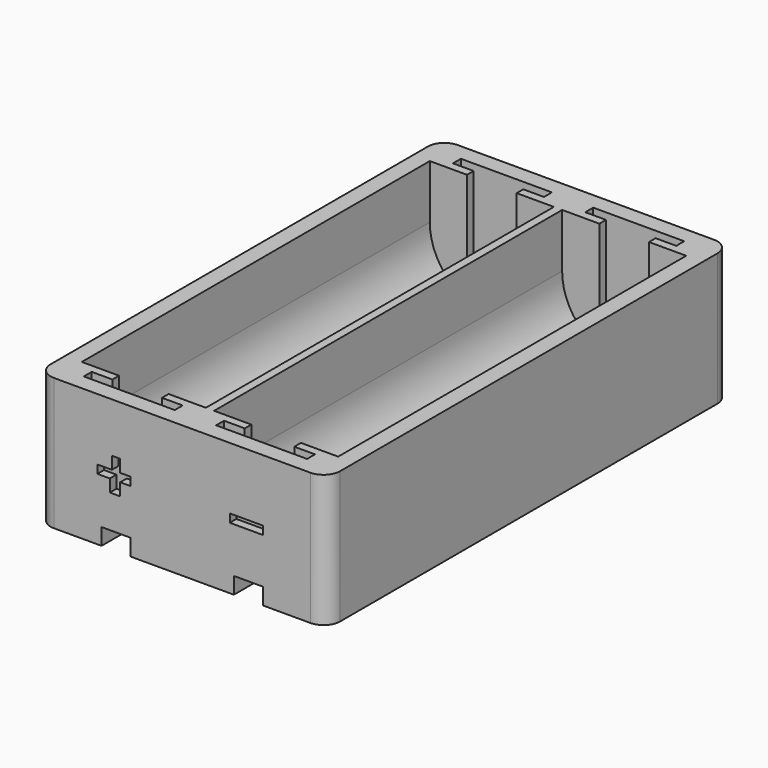
from build123d import *

# Parameters (mm, degrees)
SKETCH_W        = 35
SKETCH_H        = 61
PAD_DEPTH       = 16
SKETCH001_W     = 31
SKETCH001_H     = 57
POCKET_DEPTH    = 14
SKETCH002_W     = 1
SKETCH002_H     = 57
PAD001_DEPTH    = 14
SKETCH003_W     = 15
SKETCH003_H     = 2.2
PAD002_DEPTH    = 2
SKETCH004_W     = 3.5
SKETCH004_H     = 1
POCKET001_DEPTH = 5
SKETCH005_W     = 4.5
SKETCH005_H     = 1
PAD003_DEPTH    = 12
FILLET_R        = 2
FILLET001_R     = 7.49
SKETCH006_W     = 2
SKETCH006_H     = 1.2
PAD004_DEPTH    = 12
SKETCH007_W     = 3.5
SKETCH007_H     = 2
POCKET002_DEPTH = 2
SKETCH008_W     = 4
SKETCH008_H     = 1
POCKET003_DEPTH = 1
SKETCH009_W     = 19.5
SKETCH009_H     = 4
POCKET004_DEPTH = 1


with BuildPart() as part:
    # Sketch → Pad (new body)
    with BuildSketch(Plane.XY):
        Rectangle(SKETCH_W, SKETCH_H)
    extrude(amount=PAD_DEPTH)

    # Sketch001 (on Face6 of Pad) → Pocket (cut)
    with BuildSketch(Plane.XY.offset(16)):
        Rectangle(SKETCH001_W, SKETCH001_H)
    extrude(amount=-POCKET_DEPTH, mode=Mode.SUBTRACT)

    # Sketch002 (on Face11 of Pocket) → Pad001 (join)
    with BuildSketch(Plane.XY.offset(2)):
        Rectangle(SKETCH002_W, SKETCH002_H)
    extrude(amount=PAD001_DEPTH)

    # Sketch003 (on Face17 of Pad001) → Pad002 (join)
    with BuildSketch(Plane.XY.offset(2)):
        with Locations((8, 27.4)):
            Rectangle(SKETCH003_W, SKETCH003_H)
        with Locations((-8, 27.4)):
            Rectangle(SKETCH003_W, SKETCH003_H)
        with Locations((8, -27.4)):
            Rectangle(SKETCH003_W, SKETCH003_H)
        with Locations((-8, -27.4)):
            Rectangle(SKETCH003_W, SKETCH003_H)
    extrude(amount=PAD002_DEPTH)

    # Sketch004 (on Face22 of Pad002) → Pocket001 (cut)
    with BuildSketch(Plane.XY.offset(4)):
        with Locations((8, 28)):
            Rectangle(SKETCH004_W, SKETCH004_H)
        with Locations((-8, 28)):
            Rectangle(SKETCH004_W, SKETCH004_H)
        with Locations((8, -28)):
            Rectangle(SKETCH004_W, SKETCH004_H)
        with Locations((-8, -28)):
            Rectangle(SKETCH004_W, SKETCH004_H)
    extrude(amount=-POCKET001_DEPTH, mode=Mode.SUBTRACT)

    # Sketch005 (on Face30 of Pocket001) → Pad003 (join)
    with BuildSketch(Plane.XY.offset(4)):
        with Locations((-2.75, 26.8)):
            Rectangle(SKETCH005_W, SKETCH005_H)
        with Locations((-13.25, 26.8)):
            Rectangle(SKETCH005_W, SKETCH005_H)
        with Locations((2.75, 26.8)):
            Rectangle(SKETCH005_W, SKETCH005_H)
        with Locations((13.25, 26.8)):
            Rectangle(SKETCH005_W, SKETCH005_H)
        with Locations((13.25, -26.8)):
            Rectangle(SKETCH005_W, SKETCH005_H)
        with Locations((-13.25, -26.8)):
            Rectangle(SKETCH005_W, SKETCH005_H)
        with Locations((-2.75, -26.8)):
            Rectangle(SKETCH005_W, SKETCH005_H)
        with Locations((2.75, -26.8)):
            Rectangle(SKETCH005_W, SKETCH005_H)
    extrude(amount=PAD003_DEPTH)

    # Fillet
    fillet_edges = [part.edges().sort_by_distance(p)[0] for p in [
        (-17.5, 30.5, 8),
        (17.5, 30.5, 8),
        (17.5, -30.5, 8),
        (-17.5, -30.5, 8),
    ]]
    fillet(fillet_edges, radius=FILLET_R)

    # Fillet001
    fillet001_edges = [part.edges().sort_by_distance(p)[0] for p in [
        (-15.5, 0, 2),
        (-0.5, 0, 2),
        (0.5, 0, 2),
        (15.5, 0, 2),
    ]]
    fillet(fillet001_edges, radius=FILLET001_R)

    # Sketch006 (on Face36 of Fillet001) → Pad004 (join)
    with BuildSketch(Plane.XY.offset(4)):
        with Locations((-14.5, 27.9)):
            Rectangle(SKETCH006_W, SKETCH006_H)
        with Locations((-1.5, 27.9)):
            Rectangle(SKETCH006_W, SKETCH006_H)
        with Locations((1.5, 27.9)):
            Rectangle(SKETCH006_W, SKETCH006_H)
        with Locations((14.5, 27.9)):
            Rectangle(SKETCH006_W, SKETCH006_H)
        with Locations((14.5, -27.9)):
            Rectangle(SKETCH006_W, SKETCH006_H)
        with Locations((1.5, -27.9)):
            Rectangle(SKETCH006_W, SKETCH006_H)
        with Locations((-1.5, -27.9)):
            Rectangle(SKETCH006_W, SKETCH006_H)
        with Locations((-14.5, -27.9)):
            Rectangle(SKETCH006_W, SKETCH006_H)
    extrude(amount=PAD004_DEPTH)

    # Sketch007 (on Face2 of Fillet) → Pocket002 (cut)
    with BuildSketch(Plane(origin=(0, 0, 0), x_dir=(1, 0, 0), z_dir=(0, 0, -1))):
        with Locations((-8, 29.5)):
            Rectangle(SKETCH007_W, SKETCH007_H)
        with Locations((8, 29.5)):
            Rectangle(SKETCH007_W, SKETCH007_H)
    extrude(amount=-POCKET002_DEPTH, mode=Mode.SUBTRACT)

    # Sketch008 (on Face14 of Pocket002) → Pocket003 (cut)
    with BuildSketch(Plane.XZ.offset(30.5)):
        Polygon((-10.25, 8.5), (-8.5, 8.5), (-8.5, 10), (-7.5, 10), (-7.5, 8.5), (-6.25, 8.5), (-6.25, 7.5), (-7.5, 7.5), (-7.5, 6), (-8.75, 6), (-8.75, 7.5), (-10.25, 7.5), align=None)
        with Locations((7.75, 8)):
            Rectangle(SKETCH008_W, SKETCH008_H)
    extrude(amount=-POCKET003_DEPTH, mode=Mode.SUBTRACT)

    # Sketch009 (on Face43 of Pocket003) → Pocket004 (cut)
    with BuildSketch(Plane(origin=(0, 0, 0), x_dir=(1, 0, 0), z_dir=(0, 0, -1))):
        with Locations((0, -25.5)):
            Rectangle(SKETCH009_W, SKETCH009_H)
    extrude(amount=-POCKET004_DEPTH, mode=Mode.SUBTRACT)


solid = part.part
